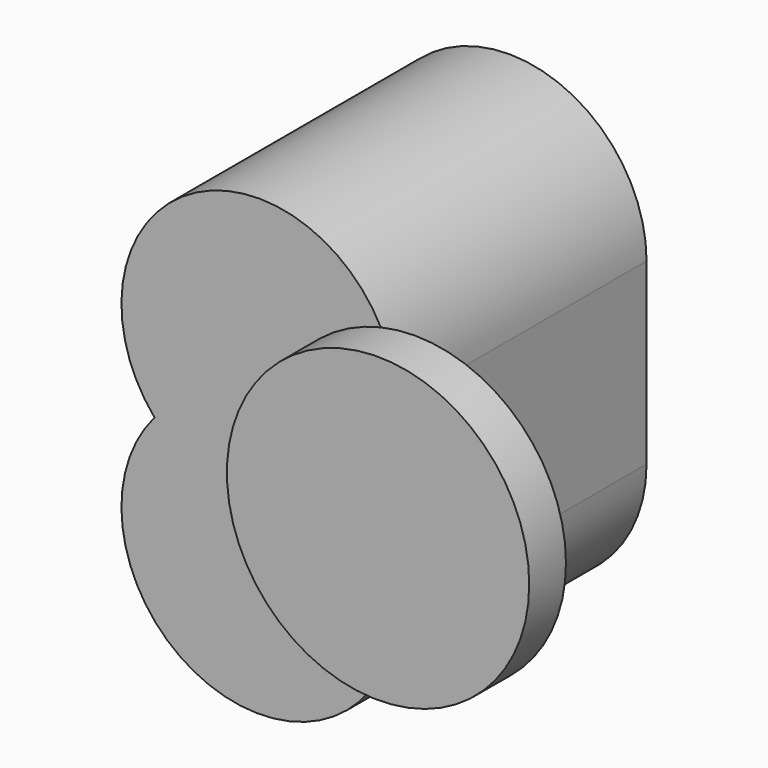
from build123d import *

# Parameters (mm, degrees)
F0_W       = 76.0625377297
F0_H       = 98.9513029344
F1_DEPTH   = 172.974
F2_R       = 16.4981826782
F3_DEPTH   = 207.518
F1_FACE_W  = 76.0625377297
F1_FACE_H  = 172.974
F1_FACE1_W = 76.0625377297
F1_FACE1_H = 172.974
F6_R       = 83.6259605226
F7_DEPTH   = 25.4


with BuildPart() as f1:
    # F0 (on Front) → F1 (new body)
    with BuildSketch(Plane.XZ):
        with Locations((-140.9135572612, -56.9459532853)):
            Rectangle(F0_W, F0_H)
    extrude(amount=-F1_DEPTH)

    # F2 (on Right) → F3 (cut)
    with BuildSketch(Plane.YZ):
        with Locations((32.9360701144, -37.6199260354)):
            Circle(F2_R)
    extrude(amount=-F3_DEPTH, mode=Mode.SUBTRACT)

    # F1_face (on face) → F4 (revolve)
    with BuildSketch(Plane(origin=(-140.9135572612, 86.487, -106.4216047525), x_dir=(1, 0, 0), z_dir=(0, 0, -1))):
        Rectangle(F1_FACE_W, F1_FACE_H)
    revolve(axis=Axis((-178.9448261261, 86.487, -106.4216047525), (0, -1, 0)))

    # F1_face1 (on face) → F5 (revolve)
    with BuildSketch(Plane(origin=(-140.9135572612, 86.487, -7.4703018181), x_dir=(1, 0, 0), z_dir=(0, 0, 1))):
        Rectangle(F1_FACE1_W, F1_FACE1_H)
    revolve(axis=Axis((-178.9448261261, 86.487, -7.4703018181), (0, -1, 0)))

    # F6 (on Front) → F7 (join)
    with BuildSketch(Plane.XZ):
        with Locations((-92.7199497819, -53.7736974657)):
            Circle(F6_R)
    extrude(amount=F7_DEPTH)


solid = f1.part
